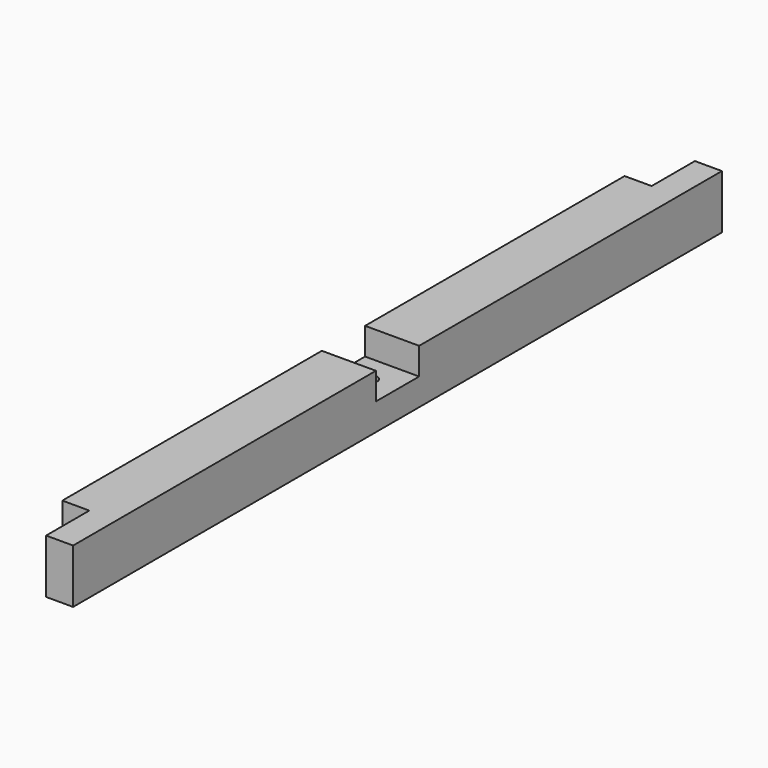
from build123d import *

# Parameters (mm, degrees)
SKETCH018_W     = 40
SKETCH018_H     = 40
PAD018_DEPTH    = 600
SKETCH019_W     = 40
SKETCH019_H     = 40
POCKET_DEPTH    = 20
SKETCH020_W     = 40
SKETCH020_H     = 40
POCKET001_DEPTH = 20
SKETCH064_R     = 5
POCKET019_DEPTH = 40.001


with BuildPart() as part:
    # Sketch018 → Pad018 (new body)
    with BuildSketch(Plane.XZ):
        with Locations((20, 280)):
            Rectangle(SKETCH018_W, SKETCH018_H)
    extrude(amount=PAD018_DEPTH)

    # Sketch019 (on Face4 of Pad018) → Pocket (cut)
    with BuildSketch(Plane(origin=(0, 0, 0), x_dir=(0, 0, -1), z_dir=(-1, 0, 0))):
        with Locations((-280, 580)):
            Rectangle(SKETCH019_W, SKETCH019_H)
        with Locations((-280, 20)):
            Rectangle(SKETCH019_W, SKETCH019_H)
    extrude(amount=-POCKET_DEPTH, mode=Mode.SUBTRACT)

    # Sketch020 (on Face1 of Pocket) → Pocket001 (cut)
    with BuildSketch(Plane(origin=(0, 0, 300), x_dir=(-1, 0, 0), z_dir=(0, 0, 1))):
        with Locations((-20, 300)):
            Rectangle(SKETCH020_W, SKETCH020_H)
    extrude(amount=-POCKET001_DEPTH, mode=Mode.SUBTRACT)

    # Sketch064 (on Face8 of Pocket001) → Pocket019 (cut, through all)
    with BuildSketch(Plane(origin=(0, 0, 260), x_dir=(1, 0, 0), z_dir=(0, 0, -1))):
        with Locations((20, 300)):
            Circle(SKETCH064_R)
    extrude(amount=-POCKET019_DEPTH, mode=Mode.SUBTRACT)


with BuildPart() as part_1:
    # Clone011 placement: moved
    add(part.part.moved(Location((0, 0, 450))))


solid = part_1.part
